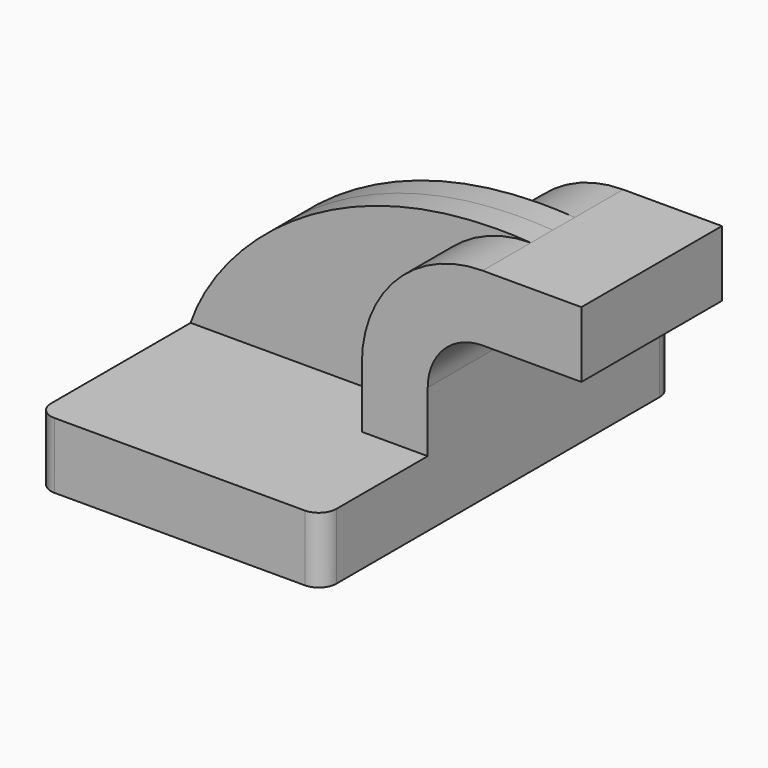
from build123d import *

# Parameters (mm, degrees)
F1_DEPTH = 63.5
F0_W     = 25.4
F0_H     = 19.05
F2_DEPTH = 25.4
F3_DEPTH = 7.9375
F4_R     = 5.08


with BuildPart() as f1:
    # F0 (on Front) → F1 (new body, symmetric)
    with BuildSketch(Plane.XZ):
        Polygon((-41.275, -9.525), (41.275, -9.525), (41.275, 9.525), (22.225, 9.525), (-41.275, 9.525), align=None)
    extrude(amount=F1_DEPTH, both=True)

    # F0 (on Front) → F2 (join, symmetric)
    with BuildSketch(Plane.XZ):
        with BuildLine():
            Line((22.225, 9.525), (41.275, 9.525))
            Line((41.275, 9.525), (41.275, 27.0002))
            ThreePointArc((41.275, 27.0002), (45.9246798487, 38.2255201513), (57.15, 42.8752))
            Line((57.15, 42.8752), (60.325, 42.8752))
            Line((60.325, 42.8752), (60.325, 61.9252))
            Line((60.325, 61.9252), (57.15, 61.9252))
            ThreePointArc((57.15, 61.9252), (32.4542956671, 51.6959043329), (22.225, 27.0002))
            Line((22.225, 27.0002), (22.225, 9.525))
        make_face()
        with Locations((73.025, 52.4002)):
            Rectangle(F0_W, F0_H)
    extrude(amount=F2_DEPTH, both=True)

    # F0 (on Front) → F3 (join, symmetric)
    with BuildSketch(Plane.XZ):
        with BuildLine():
            add(Edge.make_bspline(
                [(-41.275, 9.525), (-33.7711833417, 32.2572402656), (0, 65.9977197647), (57.15, 61.9252)],
                knots=[0, 0, 0, 0, 111.5045361635, 111.5045361635, 111.5045361635, 111.5045361635], degree=3))
            Line((-41.275, 9.525), (22.225, 9.525))
            Line((22.225, 9.525), (22.225, 27.0002))
            ThreePointArc((22.225, 27.0002), (32.4542956671, 51.6959043329), (57.15, 61.9252))
        make_face()
    extrude(amount=F3_DEPTH, both=True)

    # F4
    f4_edges = [f1.edges().sort_by_distance(p)[0] for p in [
        (41.275, -63.5, 0),
        (41.275, 63.5, 0),
        (-41.275, 63.5, 0),
        (-41.275, -63.5, 0),
    ]]
    fillet(f4_edges, radius=F4_R)


solid = f1.part
